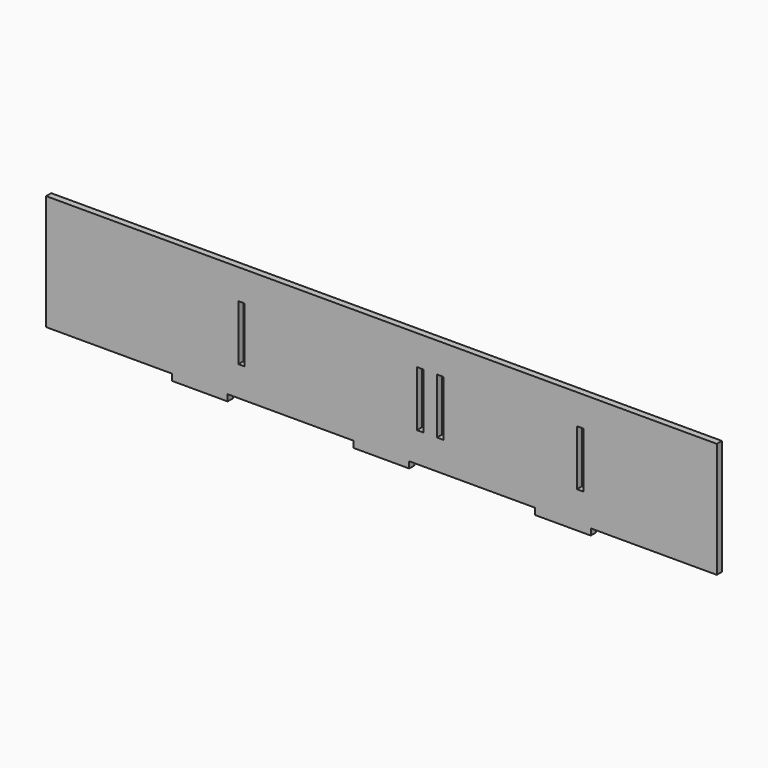
from build123d import *

# Parameters (mm, degrees)
F0_W     = 3
F0_H     = 26
F1_DEPTH = 3


with BuildPart() as f1:
    # F0 (on Front) → F1 (new body)
    with BuildSketch(Plane.XZ):
        Polygon((72, -28.5), (98, -28.5), (98, -25.5), (157, -25.5), (157, 28.5), (-157, 28.5), (-157, -25.5), (-98, -25.5), (-98, -28.5), (-72, -28.5), (-72, -25.5), (-13, -25.5), (-13, -28.5), (13, -28.5), (13, -25.5), (72, -25.5), align=None)
        with Locations((-65.5, 1.5)):
            Rectangle(F0_W, F0_H, mode=Mode.SUBTRACT)
        with Locations((18.098513, 1.5)):
            Rectangle(F0_W, F0_H, mode=Mode.SUBTRACT)
        with Locations((27.5, 1.5)):
            Rectangle(F0_W, F0_H, mode=Mode.SUBTRACT)
        with Locations((93, 1.5)):
            Rectangle(F0_W, F0_H, mode=Mode.SUBTRACT)
    extrude(amount=F1_DEPTH)


solid = f1.part
